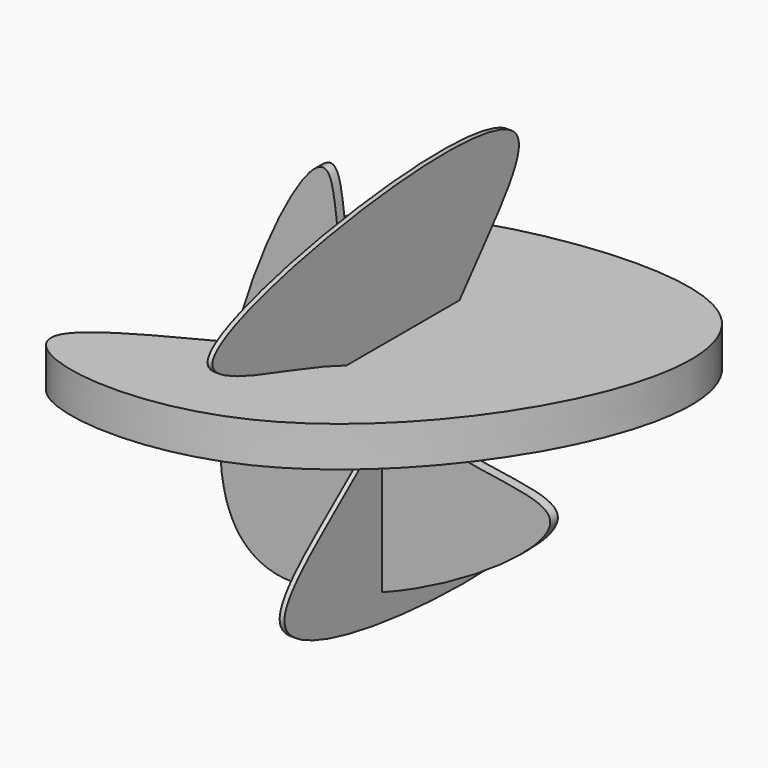
from build123d import *

# Parameters (mm, degrees)
F1_DEPTH = 2.54
F3_DEPTH = 1.27
F5_DEPTH = 10.668


with BuildPart() as f1:
    # F0 (on Front) → F1 (new body)
    with BuildSketch(Plane.XZ):
        with BuildLine():
            add(Edge.make_bspline(
                [(0, 0), (13.5799085576, -12.7719651286), (83.2945256343, -2.8611107608), (-41.8909609939, -77.8164047525), (-47.3783280998, -5.2507494197), (-6.3718372648, 76.7985348983), (-13.8222039286, 12.9998450158), (0, 0)],
                knots=[0, 0, 0, 0, 0.1839710611, 0.4221260721, 0.6109445674, 0.8127464914, 1, 1, 1, 1], degree=3))
        make_face()
    extrude(amount=F1_DEPTH)

    # F2 (on Right) → F3 (join)
    with BuildSketch(Plane.YZ):
        with BuildLine():
            add(Edge.make_bspline(
                [(0, 0), (-3.1969829913, 13.6799323186), (-129.4120120665, 28.5603199257), (102.810549989, 66.3438546679), (-29.6974912181, -20.1778485922), (102.3862177368, -62.1773154488), (-89.5038642755, -53.5879835274), (2.9151945639, -12.4741559271), (0, 0)],
                knots=[0, 0, 0, 0, 0.161735948, 0.3628054062, 0.5245608856, 0.6692607908, 0.8525197795, 1, 1, 1, 1], degree=3))
        make_face()
    extrude(amount=-F3_DEPTH)

    # F4 (on Top) → F5 (join)
    with BuildSketch(Plane.XY):
        with BuildLine():
            add(Edge.make_bspline(
                [(0, 0), (-0.4758122167, 12.3180757611), (-95.4404210722, 37.3593466098), (97.4589879648, 88.662662124), (16.8339785627, -69.6368429658), (-95.3349548935, -42.7168305179), (0.5287436469, -13.6883923363), (0, 0)],
                knots=[0, 0, 0, 0, 0.1731368062, 0.393395167, 0.6347347114, 0.8076026989, 1, 1, 1, 1], degree=3))
        make_face()
    extrude(amount=F5_DEPTH)


solid = f1.part
